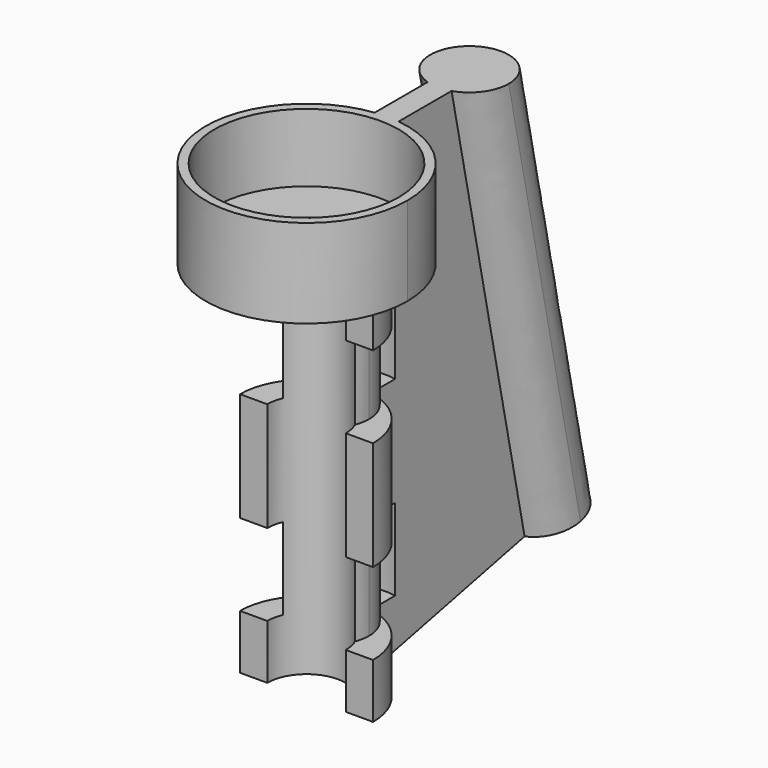
from build123d import *

# Parameters (mm, degrees)
F1_DEPTH    = 44.45
F9_DEPTH    = 9.525
F10_DEPTH   = 9.525
F12_DEPTH   = 2.38125
F13_R       = 11.7475
F13_R_2     = 10.7315
F14_DEPTH   = 7.9375
F15_DEPTH   = 10.31875
F15_FACE1_W = 2.794
F15_FACE1_H = 54.76875
F22_DEPTH   = 12.7


with BuildPart() as f1:
    # F0 (on Top) → F1 (new body)
    with BuildSketch(Plane.XY):
        with BuildLine():
            ThreePointArc((-4.572, 0), (0, 4.572), (4.572, 0))
            Line((4.572, 0), (7.747, 0))
            ThreePointArc((7.747, 0), (5.951410253, 4.9595085442), (1.397, 7.62))
            ThreePointArc((1.397, 7.62), (0, 7.747), (-1.397, 7.62))
            ThreePointArc((-1.397, 7.62), (-5.951410253, 4.9595085442), (-7.747, 0))
            Line((-7.747, 0), (-4.572, 0))
        make_face()
        with BuildLine():
            ThreePointArc((-1.397, 7.62), (0, 7.747), (1.397, 7.62))
            Line((1.397, 7.62), (1.397, 19.3802))
            Line((1.397, 19.3802), (-1.397, 19.3802))
            Line((-1.397, 19.3802), (-1.397, 7.62))
        make_face()
    extrude(amount=F1_DEPTH)

    # F6 (on offset) → F9 (cut)
    with BuildSketch(Plane.XY.offset(28.575)):
        with BuildLine():
            ThreePointArc((4.1557772601, 1.7640375299), (0, -1.016), (-4.1557772601, 1.7640375299))
            Line((-4.1557772601, 1.7640375299), (-7.6070004234, 1.7640375299))
            ThreePointArc((-7.6070004234, 1.7640375299), (0, -4.318), (7.6070004234, 1.7640375299))
            Line((7.6070004234, 1.7640375299), (4.1557772601, 1.7640375299))
        make_face()
        with BuildLine():
            ThreePointArc((-4.1557772601, 1.7640375299), (-0.8747878771, 7.8904367738), (4.4961791045, 3.4801791045))
            ThreePointArc((4.4961791045, 3.4801791045), (4.4102576693, 2.6053912274), (4.1557772601, 1.7640375299))
            Line((4.1557772601, 1.7640375299), (7.6070004234, 1.7640375299))
            ThreePointArc((7.6070004234, 1.7640375299), (7.750237064, 2.6168003938), (7.7981791045, 3.4801791045))
            ThreePointArc((7.7981791045, 3.4801791045), (-0.8633787106, 11.2304161684), (-7.6070004234, 1.7640375299))
            Line((-7.6070004234, 1.7640375299), (-4.1557772601, 1.7640375299))
        make_face()
        with BuildLine():
            ThreePointArc((7.6070004234, 1.7640375299), (0, -4.318), (-7.6070004234, 1.7640375299))
            Line((-7.6070004234, 1.7640375299), (-8.4216929972, 1.7640375299))
            Line((-8.4216929972, 1.7640375299), (-8.4216929972, -6.3198274001))
            Line((-8.4216929972, -6.3198274001), (11.7628639564, -6.3198274001))
            Line((11.7628639564, -6.3198274001), (11.7628639564, 1.7640375299))
            Line((11.7628639564, 1.7640375299), (7.6070004234, 1.7640375299))
        make_face()
    extrude(amount=F9_DEPTH, mode=Mode.SUBTRACT)

    # F8 (on offset) → F10 (cut)
    with BuildSketch(Plane.XY.offset(15.875)):
        with BuildLine():
            ThreePointArc((4.179462045, 1.8225532258), (0, -1.016), (-4.179462045, 1.8225532258))
            Line((-4.179462045, 1.8225532258), (-7.6199654718, 1.8225532258))
            ThreePointArc((-7.6199654718, 1.8225532258), (0, -4.318), (7.6199654718, 1.8225532258))
            Line((7.6199654718, 1.8225532258), (4.179462045, 1.8225532258))
        make_face()
        with BuildLine():
            ThreePointArc((-4.179462045, 1.8225532258), (-0.8438058499, 7.8964692022), (4.4961791045, 3.4801791045))
            ThreePointArc((4.4961791045, 3.4801791045), (4.4162900977, 2.6363732546), (4.179462045, 1.8225532258))
            Line((4.179462045, 1.8225532258), (7.6199654718, 1.8225532258))
            ThreePointArc((7.6199654718, 1.8225532258), (7.7534976902, 2.6465899292), (7.7981791045, 3.4801791045))
            ThreePointArc((7.7981791045, 3.4801791045), (-0.8335891753, 11.2336767947), (-7.6199654718, 1.8225532258))
            Line((-7.6199654718, 1.8225532258), (-4.179462045, 1.8225532258))
        make_face()
        with BuildLine():
            ThreePointArc((7.6199654718, 1.8225532258), (0, -4.318), (-7.6199654718, 1.8225532258))
            Line((-7.6199654718, 1.8225532258), (-8.5849482566, 1.8225532258))
            Line((-8.5849482566, 1.8225532258), (-8.5849482566, -5.9901881032))
            Line((-8.5849482566, -5.9901881032), (8.4006469697, -5.9901881032))
            Line((8.4006469697, -5.9901881032), (8.4006469697, 1.8225532258))
            Line((8.4006469697, 1.8225532258), (7.6199654718, 1.8225532258))
        make_face()
    extrude(amount=-F10_DEPTH, mode=Mode.SUBTRACT)

    # F11 (on face) → F12 (join)
    with BuildSketch(Plane.XY.offset(44.45)):
        with BuildLine():
            ThreePointArc((-1.397, 11.6641393703), (-7.7971949684, -8.7867802337), (11.7475, 0))
            ThreePointArc((11.7475, 0), (8.7867802337, 7.7971949684), (1.397, 11.6641393703))
            Line((1.397, 11.6641393703), (1.397, 7.62))
            ThreePointArc((1.397, 7.62), (5.951410253, 4.9595085442), (7.747, 0))
            Line((7.747, 0), (4.572, 0))
            ThreePointArc((4.572, 0), (0, -4.572), (-4.572, 0))
            Line((-4.572, 0), (-7.747, 0))
            ThreePointArc((-7.747, 0), (-5.951410253, 4.9595085442), (-1.397, 7.62))
            Line((-1.397, 7.62), (-1.397, 11.6641393703))
        make_face()
        with BuildLine():
            Line((1.397, 7.62), (1.397, 11.6641393703))
            ThreePointArc((1.397, 11.6641393703), (0, 11.7475), (-1.397, 11.6641393703))
            Line((-1.397, 11.6641393703), (-1.397, 7.62))
            ThreePointArc((-1.397, 7.62), (-5.951410253, 4.9595085442), (-7.747, 0))
            Line((-7.747, 0), (-4.572, 0))
            ThreePointArc((-4.572, 0), (0, 4.572), (4.572, 0))
            Line((4.572, 0), (7.747, 0))
            ThreePointArc((7.747, 0), (5.951410253, 4.9595085442), (1.397, 7.62))
        make_face()
    extrude(amount=F12_DEPTH)

    # F13 (on face) → F14 (join)
    with BuildSketch(Plane.XY.offset(46.83125)):
        Circle(F13_R)
        Circle(F13_R_2, mode=Mode.SUBTRACT)
    extrude(amount=F14_DEPTH)

    # F15 (add, through all): a face of the model
    f15_faces = [f1.faces().sort_by_distance(p)[0] for p in [
        (0, 15.5499360639, 44.45),
    ]]
    extrude(f15_faces, amount=F15_DEPTH)

    # F18: sweep along a path in F17
    with BuildLine(Plane.YZ) as f18_path:
        Line((23.7335406713, 54.76875), (35.3749978582, 0))
    # F16 (on face) → F18 (sweep)
    with BuildSketch(Plane.XY.offset(54.76875)):
        with BuildLine():
            ThreePointArc((1.397, 19.3802), (3.6939320514, 21.0394638349), (4.572, 23.7335406713))
            ThreePointArc((4.572, 23.7335406713), (-2.6940768363, 27.4274727226), (-1.397, 19.3802))
            Line((-1.397, 19.3802), (1.397, 19.3802))
        make_face()
    sweep(path=f18_path.line)

    # F15_face1 (on face) → F19 (join, up to the next surface of F1)
    with BuildSketch(Plane(origin=(0, 19.3802, 27.384375), x_dir=(-1, 0, 0), z_dir=(0, 1, 0))):
        Rectangle(F15_FACE1_W, F15_FACE1_H)
    extrude(until=Until.NEXT)

    # F20: union 

    # F21 (on Right) → F22 (cut, symmetric)
    with BuildSketch(Plane.YZ):
        Polygon((39.6406120252, 6.8061911946), (7.62, 0), (8.2477421489, -2.2532611279), (41.5662580615, -2.2532611279), align=None)
    extrude(amount=F22_DEPTH, both=True, mode=Mode.SUBTRACT)


solid = f1.part
